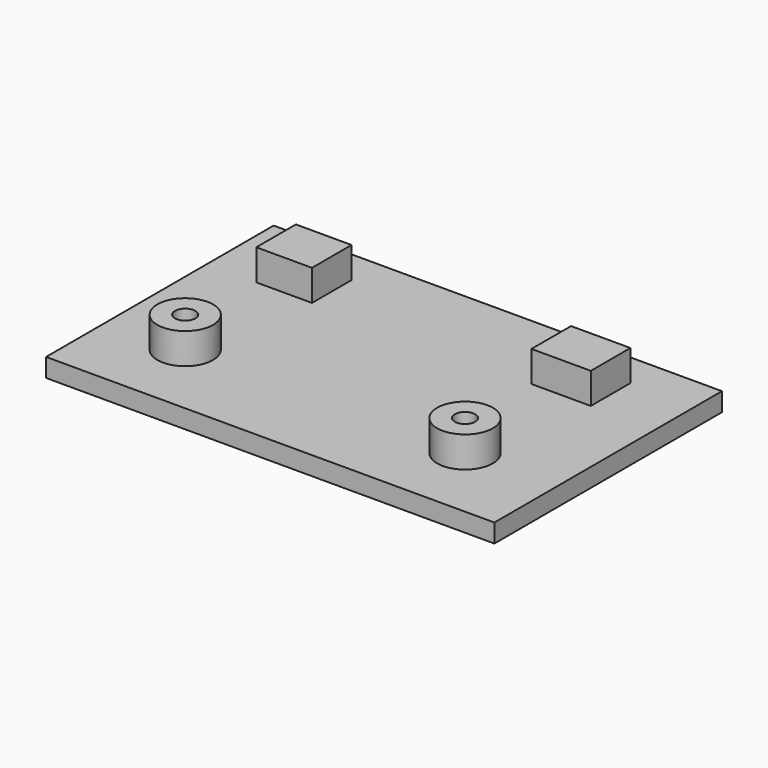
from build123d import *

# Parameters (mm, degrees)
F0_W     = 72.5
F0_H     = 46
F0_R     = 4.5
F1_DEPTH = 3
F2_DEPTH = 8
F3_D     = 3.3
F4_W     = 9
F4_H     = 8
F5_DEPTH = 5
F6_W     = 9.5978157372
F6_H     = 8
F7_DEPTH = 5


with BuildPart() as f1:
    # F0 (on Top) → F1 (new body)
    with BuildSketch(Plane.XY):
        Rectangle(F0_W, F0_H)
        with Locations((-23.75, -10.5)):
            Circle(F0_R, mode=Mode.SUBTRACT)
        with Locations((21.5, -10.5)):
            Circle(F0_R, mode=Mode.SUBTRACT)
        with Locations((-23.75, -10.5)):
            Circle(F0_R)
        with Locations((21.5, -10.5)):
            Circle(F0_R)
    extrude(amount=F1_DEPTH)

    # F0 (on Top) → F2 (join)
    with BuildSketch(Plane.XY):
        with Locations((-23.75, -10.5)):
            Circle(F0_R)
        with Locations((21.5, -10.5)):
            Circle(F0_R)
    extrude(amount=F2_DEPTH)

    # F3 (through all)
    with Locations(Plane(origin=(0, 0, 0), x_dir=(1, 0, 0), z_dir=(0, 0, -1))):
        with Locations((21.5, 10.5), (-23.75, 10.5)):
            Hole(F3_D / 2)

    # F4 (on face) → F5 (join)
    with BuildSketch(Plane.XY.offset(3)):
        with Locations((-23.75, 13.5)):
            Rectangle(F4_W, F4_H)
    extrude(amount=F5_DEPTH)

    # F6 (on face) → F7 (join)
    with BuildSketch(Plane.XY.offset(3)):
        with Locations((21.0489078686, 13.5)):
            Rectangle(F6_W, F6_H)
    extrude(amount=F7_DEPTH)


solid = f1.part
